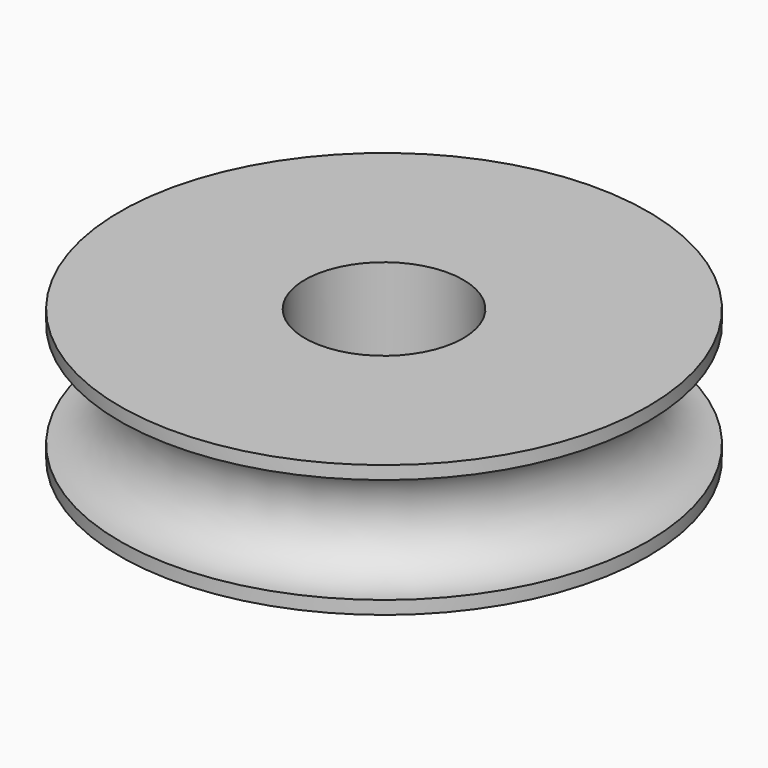
from build123d import *

# Parameters (mm, degrees)
F0_R     = 10
F1_DEPTH = 2.5
F2_R     = 2
F4_R     = 3
F5_DEPTH = 25


with BuildPart() as f1:
    # F0 (on Top) → F1 (new body, symmetric)
    with BuildSketch(Plane.XY):
        Circle(F0_R)
    extrude(amount=F1_DEPTH, both=True)

    # F2 (on Right) → F3 (revolve, cut)
    with BuildSketch(Plane.YZ):
        with Locations((10, 0)):
            Circle(F2_R)
    revolve(axis=Axis((0, 0, 4.383557), (0, 0, 1)), mode=Mode.SUBTRACT)

    # F4 (on face) → F5 (cut)
    with BuildSketch(Plane.XY.offset(2.5)):
        Circle(F4_R)
    extrude(amount=-F5_DEPTH, mode=Mode.SUBTRACT)


solid = f1.part
